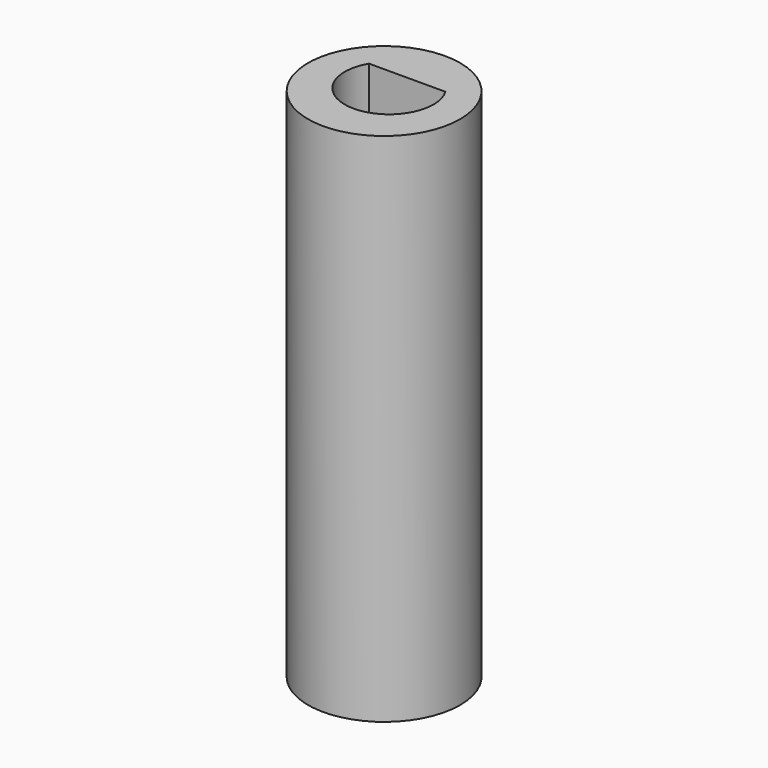
from build123d import *

# Parameters (mm, degrees)
SKETCH_R     = 2.95
PAD_DEPTH    = 20
POCKET_DEPTH = 20


with BuildPart() as part:
    # Sketch → Pad (new body)
    with BuildSketch(Plane.XY):
        Circle(SKETCH_R)
    extrude(amount=PAD_DEPTH)

    # Sketch001 (on Face3 of Pad) → Pocket (cut)
    with BuildSketch(Plane.XY.offset(20)):
        with BuildLine():
            ThreePointArc((-1.481091, 1.120082), (0.001183, -1.474761), (1.479292, 1.122458))
            Line((-1.481091, 1.120082), (1.479292, 1.122458))
        make_face()
    extrude(amount=-POCKET_DEPTH, mode=Mode.SUBTRACT)


solid = part.part
